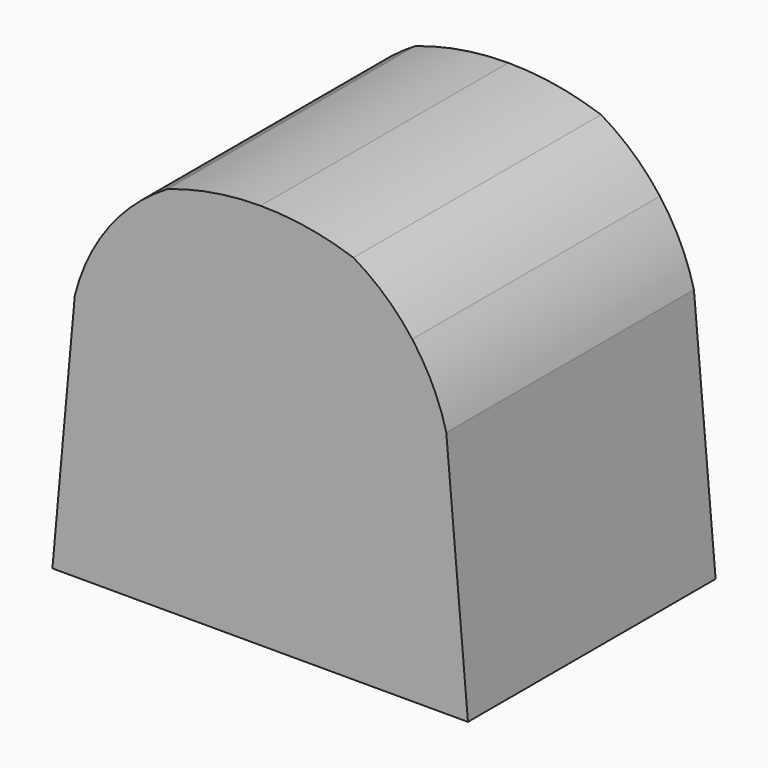
from build123d import *

# Parameters (mm, degrees)
F1_DEPTH = 2.54


with BuildPart() as f1:
    # F0 (on Front) → F1 (new body)
    with BuildSketch(Plane.XZ):
        Polygon((3.2258, 0), (3.048, 2.032), (1.524, 2.032), (1.524, 0), align=None)
        Polygon((1.524, 2.032), (3.048, 2.032), (2.667, 2.54), (2.286, 3.048), (1.524, 3.048), align=None)
        with BuildLine():
            Line((2.667, 2.54), (3.048, 2.032))
            ThreePointArc((3.048, 2.032), (2.9372235999, 2.337933026), (2.7686, 2.6162))
            Line((2.7686, 2.6162), (2.667, 2.54))
        make_face()
        Polygon((1.524, 0), (1.524, 2.032), (0, 2.032), (-0.1839377219, 0), align=None)
        Polygon((0, 2.032), (1.524, 2.032), (1.524, 3.048), (0.762, 3.048), (0.381, 2.54), align=None)
        with BuildLine():
            Line((2.286, 3.048), (2.667, 2.54))
            Line((2.667, 2.54), (2.7686, 2.6162))
            ThreePointArc((2.7686, 2.6162), (2.548678313, 2.8559934086), (2.286, 3.048))
        make_face()
        with BuildLine():
            ThreePointArc((0.2794, 2.6162), (0.1107764001, 2.337933026), (0, 2.032))
            Line((0, 2.032), (0.381, 2.54))
            Line((0.381, 2.54), (0.2794, 2.6162))
        make_face()
        with BuildLine():
            Line((1.524, 3.175), (1.524, 3.048))
            Line((1.524, 3.048), (2.286, 3.048))
            ThreePointArc((2.286, 3.048), (1.9102554207, 3.143032524), (1.524, 3.175))
        make_face()
        with BuildLine():
            Line((0.762, 3.048), (1.524, 3.048))
            Line((1.524, 3.048), (1.524, 3.175))
            ThreePointArc((1.524, 3.175), (1.1377445793, 3.143032524), (0.762, 3.048))
        make_face()
        with BuildLine():
            Line((0.2794, 2.6162), (0.381, 2.54))
            Line((0.381, 2.54), (0.762, 3.048))
            ThreePointArc((0.762, 3.048), (0.499321687, 2.8559934086), (0.2794, 2.6162))
        make_face()
    extrude(amount=F1_DEPTH)


solid = f1.part
